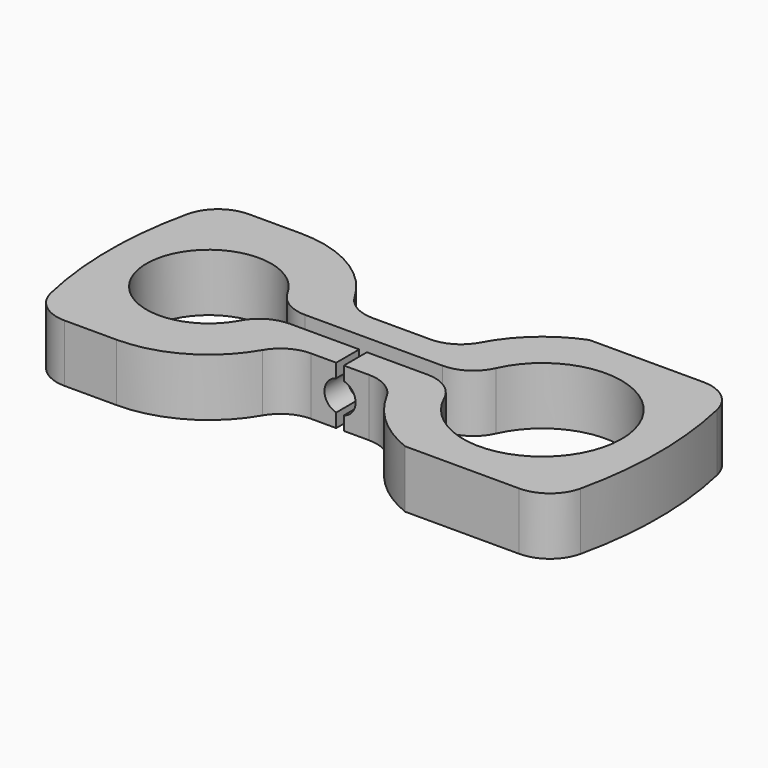
from build123d import *

# Parameters (mm, degrees)
F1_DEPTH = 15
F2_R     = 10
F4_D     = 8.1
F5_W     = 2
F5_H     = 7.5
F6_DEPTH = 15.001


with BuildPart() as f1:
    # F0 (on Top) → F1 (new body)
    with BuildSketch(Plane.XY):
        with BuildLine():
            Line((25.625, -30), (25.625, 30))
            Line((25.625, 30), (-11.742684, 30))
            ThreePointArc((-11.742684, 30), (-23.425524, 22.116407), (-30.625, 10))
            Line((-30.625, 10), (-58.590729, 10))
            ThreePointArc((-58.590729, 10), (-69.554492, 24.494897), (-86.875, 30))
            Line((-86.875, 30), (-108.125, 30))
            Line((-108.125, 30), (-108.125, -30))
            Line((-108.125, -30), (-86.875, -30))
            ThreePointArc((-86.875, -30), (-71.638705, -25.842897), (-60.625, -14.523688))
            Line((-60.625, -14.523688), (-60.625, -10))
            Line((-60.625, -10), (-58.590729, -10))
            Line((-58.590729, -10), (-30.625, -10))
            ThreePointArc((-30.625, -10), (-23.425524, -22.116407), (-11.742684, -30))
            Line((-11.742684, -30), (25.625, -30))
        make_face()
        with BuildLine():
            ThreePointArc((-20.472924, 2.5), (1.252311, 20.586946), (20.625, 0))
            ThreePointArc((20.625, 0), (1.252311, -20.586946), (-20.472924, -2.5))
            Line((-20.472924, -2.5), (-70.818459, -2.5))
            ThreePointArc((-70.818459, -2.5), (-103.125, 0), (-70.818459, 2.5))
            Line((-70.818459, 2.5), (-20.472924, 2.5))
        make_face(mode=Mode.SUBTRACT)
        with BuildLine():
            ThreePointArc((25.625, -30), (30.23108, 0), (25.625, 30))
            Line((25.625, 30), (25.625, -30))
        make_face()
        with BuildLine():
            ThreePointArc((-60.625, -14.523688), (-59.514214, -12.303958), (-58.590729, -10))
            Line((-58.590729, -10), (-60.625, -10))
            Line((-60.625, -10), (-60.625, -14.523688))
        make_face()
        with BuildLine():
            Line((-108.125, -30), (-108.125, 30))
            ThreePointArc((-108.125, 30), (-112.73108, 0), (-108.125, -30))
        make_face()
    extrude(amount=F1_DEPTH)

    # F2
    f2_edges = [f1.edges().sort_by_distance(p)[0] for p in [
        (-108.125, -30, 7.5),
        (-108.125, 30, 7.5),
        (25.625, 30, 7.5),
        (25.625, -30, 7.5),
        (-20.472924, -2.5, 7.5),
        (-20.472924, 2.5, 7.5),
        (-70.818459, 2.5, 7.5),
        (-70.818459, -2.5, 7.5),
        (-58.590729, -10, 7.5),
        (-30.625, -10, 7.5),
        (-30.625, 10, 7.5),
        (-58.590729, 10, 7.5),
    ]]
    fillet(f2_edges, radius=F2_R)

    # F4 (through all)
    with Locations(Plane.XZ.offset(10)):
        with Locations((-44.70608, 7.5)):
            Hole(F4_D / 2)

    # F5 (on face) → F6 (cut, through all)
    with BuildSketch(Plane.XY.offset(15)):
        with Locations((-44.70608, -6.25)):
            Rectangle(F5_W, F5_H)
    extrude(amount=-F6_DEPTH, mode=Mode.SUBTRACT)


solid = f1.part
